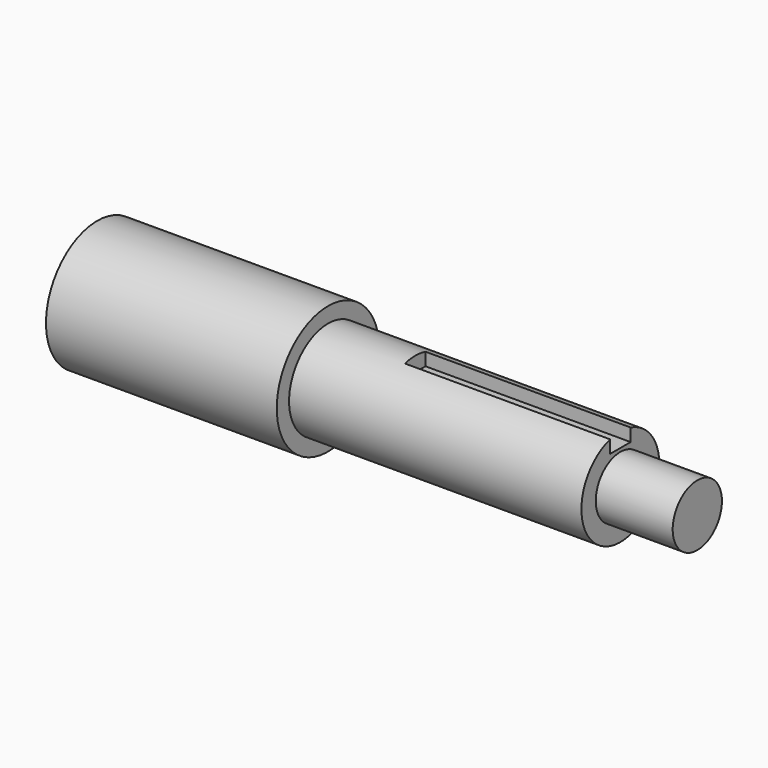
from build123d import *

# Parameters (mm, degrees)
F0_R     = 12.5
F1_DEPTH = 45
F2_R     = 9.5
F3_DEPTH = 57
F4_R     = 6
F5_DEPTH = 15
F6_DEPTH = 40


with BuildPart() as f1:
    # F0 (on Right) → F1 (new body)
    with BuildSketch(Plane.YZ):
        Circle(F0_R)
    extrude(amount=F1_DEPTH)

    # F2 (on face) → F3 (join)
    with BuildSketch(Plane.YZ.offset(45)):
        Circle(F2_R)
    extrude(amount=F3_DEPTH)

    # F4 (on face) → F5 (join)
    with BuildSketch(Plane.YZ.offset(102)):
        Circle(F4_R)
    extrude(amount=F5_DEPTH)

    # F4 (on face) → F6 (cut, symmetric)
    with BuildSketch(Plane.YZ.offset(102)):
        with BuildLine():
            Line((0, 9.5), (0, 6.6651513899))
            Line((0, 6.6651513899), (2.5, 6.6651513899))
            Line((2.5, 6.6651513899), (2.5, 9.1651513899))
            ThreePointArc((2.5, 9.1651513899), (1.2611625184, 9.4159157336), (0, 9.5))
        make_face()
        with BuildLine():
            Line((-2.5, 9.1651513899), (-2.5, 6.6651513899))
            Line((-2.5, 6.6651513899), (0, 6.6651513899))
            Line((0, 6.6651513899), (0, 9.5))
            ThreePointArc((0, 9.5), (-1.2611625184, 9.4159157336), (-2.5, 9.1651513899))
        make_face()
    extrude(amount=F6_DEPTH, both=True, mode=Mode.SUBTRACT)


solid = f1.part
